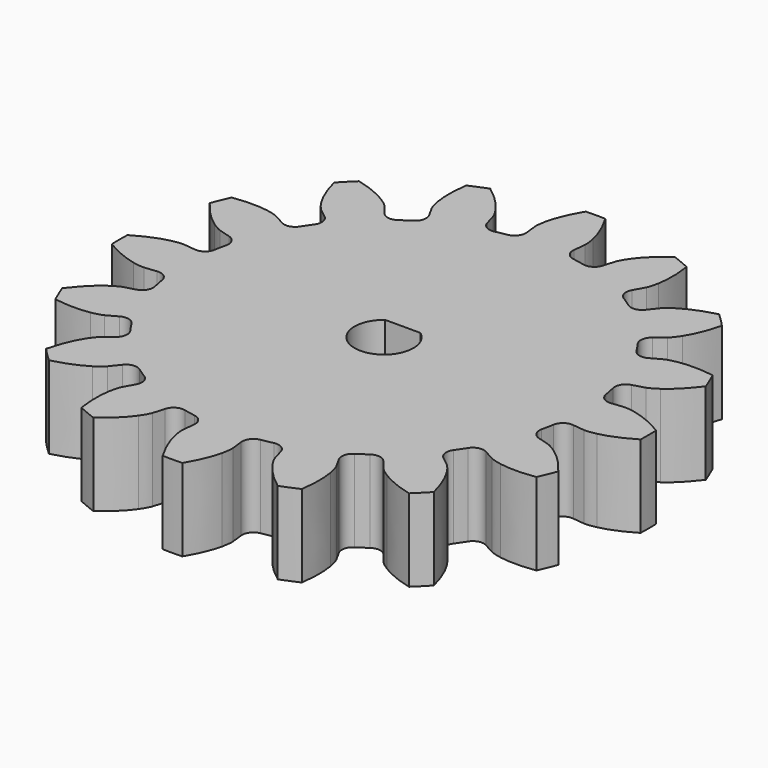
from build123d import *

# Parameters (mm, degrees)
PAD_DEPTH    = 7
POCKET_DEPTH = 7


with BuildPart() as part:
    # InvoluteGear → Pad (new body)
    with BuildSketch(Plane.XY):
        with BuildLine():
            Line((17.711158, -2.011343), (18.715948, -2.12352))
            add(Edge.make_bspline(
                [(18.715948, -2.12352), (18.826423, -2.128654), (19.15862, -2.129514), (19.714241, -2.006277)],
                knots=[0, 0, 0, 0, 1, 1, 1, 1], degree=3))
            add(Edge.make_bspline(
                [(19.714241, -2.006277), (20.377678, -1.856331), (21.328537, -1.53078), (22.487628, -0.830749)],
                knots=[0, 0, 0, 0, 1, 1, 1, 1], degree=3))
            ThreePointArc((22.487628, -0.830749), (22.501485, 0.000622), (22.484614, 0.831936))
            add(Edge.make_bspline(
                [(22.484614, 0.831936), (21.328537, 1.53078), (20.377678, 1.856331), (19.714241, 2.006277)],
                knots=[0, 0, 0, 0, 1, 1, 1, 1], degree=3))
            add(Edge.make_bspline(
                [(19.714241, 2.006277), (19.15862, 2.129514), (18.826423, 2.128654), (18.715948, 2.12352)],
                knots=[0, 0, 0, 0, 1, 1, 1, 1], degree=3))
            Line((18.715948, 2.12352), (17.711158, 2.011343))
            ThreePointArc((17.711158, 2.011343), (17.017748, 2.185488), (16.642123, 2.793807))
            ThreePointArc((16.642123, 2.793807), (16.550752, 3.292149), (16.444461, 3.787524))
            ThreePointArc((16.444461, 3.787524), (16.558699, 4.493282), (17.132684, 4.919528))
            Line((17.132684, 4.919528), (18.103917, 5.200407))
            add(Edge.make_bspline(
                [(18.103917, 5.200407), (18.207948, 5.237941), (18.515187, 5.364272), (18.981353, 5.690756)],
                knots=[0, 0, 0, 0, 1, 1, 1, 1], degree=3))
            add(Edge.make_bspline(
                [(18.981353, 5.690756), (19.536907, 6.083174), (20.290803, 6.747822), (21.093773, 7.838131)],
                knots=[0, 0, 0, 0, 1, 1, 1, 1], degree=3))
            ThreePointArc((21.093773, 7.838131), (20.788423, 8.61152), (20.454707, 9.373098))
            add(Edge.make_bspline(
                [(20.454707, 9.373098), (19.119195, 9.576334), (18.116133, 9.513226), (17.445815, 9.397871)],
                knots=[0, 0, 0, 0, 1, 1, 1, 1], degree=3))
            add(Edge.make_bspline(
                [(17.445815, 9.397871), (16.885327, 9.299101), (16.578747, 9.17118), (16.478645, 9.12416)],
                knots=[0, 0, 0, 0, 1, 1, 1, 1], degree=3))
            Line((16.478645, 9.12416), (15.593269, 8.636005))
            ThreePointArc((15.593269, 8.636005), (14.885999, 8.531538), (14.306174, 8.949806))
            ThreePointArc((14.306174, 8.949806), (14.03105, 9.375248), (13.743278, 9.792239))
            ThreePointArc((13.743278, 9.792239), (13.578738, 10.487991), (13.945914, 11.101446))
            Line((13.945914, 11.101446), (14.735729, 11.732619))
            add(Edge.make_bspline(
                [(14.735729, 11.732619), (14.817477, 11.807106), (15.052984, 12.041396), (15.358726, 12.521422)],
                knots=[0, 0, 0, 0, 1, 1, 1, 1], degree=3))
            add(Edge.make_bspline(
                [(15.358726, 12.521422), (15.721819, 13.09657), (16.163978, 13.999128), (16.488582, 15.313726)],
                knots=[0, 0, 0, 0, 1, 1, 1, 1], degree=3))
            ThreePointArc((16.488582, 15.313726), (15.910513, 15.911392), (15.310755, 16.487291))
            add(Edge.make_bspline(
                [(15.310755, 16.487291), (13.999128, 16.163978), (13.09657, 15.721819), (12.521422, 15.358726)],
                knots=[0, 0, 0, 0, 1, 1, 1, 1], degree=3))
            add(Edge.make_bspline(
                [(12.521422, 15.358726), (12.041396, 15.052984), (11.807106, 14.817477), (11.732619, 14.735729)],
                knots=[0, 0, 0, 0, 1, 1, 1, 1], degree=3))
            Line((11.732619, 14.735729), (11.101446, 13.945914))
            ThreePointArc((11.101446, 13.945914), (10.487991, 13.578738), (9.792239, 13.743278))
            ThreePointArc((9.792239, 13.743278), (9.375248, 14.03105), (8.949806, 14.306174))
            ThreePointArc((8.949806, 14.306174), (8.531538, 14.885999), (8.636005, 15.593269))
            Line((8.636005, 15.593269), (9.12416, 16.478645))
            add(Edge.make_bspline(
                [(9.12416, 16.478645), (9.17118, 16.578747), (9.299101, 16.885327), (9.397871, 17.445815)],
                knots=[0, 0, 0, 0, 1, 1, 1, 1], degree=3))
            add(Edge.make_bspline(
                [(9.397871, 17.445815), (9.513226, 18.116133), (9.576334, 19.119195), (9.373154, 20.457945)],
                knots=[0, 0, 0, 0, 1, 1, 1, 1], degree=3))
            ThreePointArc((9.373154, 20.457945), (8.610371, 20.788899), (7.83588, 21.091443))
            add(Edge.make_bspline(
                [(7.83588, 21.091443), (6.747822, 20.290803), (6.083174, 19.536907), (5.690756, 18.981353)],
                knots=[0, 0, 0, 0, 1, 1, 1, 1], degree=3))
            add(Edge.make_bspline(
                [(5.690756, 18.981353), (5.364272, 18.515187), (5.237941, 18.207948), (5.200407, 18.103917)],
                knots=[0, 0, 0, 0, 1, 1, 1, 1], degree=3))
            Line((5.200407, 18.103917), (4.919528, 17.132684))
            ThreePointArc((4.919528, 17.132684), (4.493282, 16.558699), (3.787524, 16.444461))
            ThreePointArc((3.787524, 16.444461), (3.292149, 16.550752), (2.793807, 16.642123))
            ThreePointArc((2.793807, 16.642123), (2.185488, 17.017748), (2.011343, 17.711158))
            Line((2.011343, 17.711158), (2.12352, 18.715948))
            add(Edge.make_bspline(
                [(2.12352, 18.715948), (2.128654, 18.826423), (2.129514, 19.15862), (2.006277, 19.714241)],
                knots=[0, 0, 0, 0, 1, 1, 1, 1], degree=3))
            add(Edge.make_bspline(
                [(2.006277, 19.714241), (1.856331, 20.377678), (1.53078, 21.328537), (0.830749, 22.487628)],
                knots=[0, 0, 0, 0, 1, 1, 1, 1], degree=3))
            ThreePointArc((0.830749, 22.487628), (-0.000622, 22.501485), (-0.831936, 22.484614))
            add(Edge.make_bspline(
                [(-0.831936, 22.484614), (-1.53078, 21.328537), (-1.856331, 20.377678), (-2.006277, 19.714241)],
                knots=[0, 0, 0, 0, 1, 1, 1, 1], degree=3))
            add(Edge.make_bspline(
                [(-2.006277, 19.714241), (-2.129514, 19.15862), (-2.128654, 18.826423), (-2.12352, 18.715948)],
                knots=[0, 0, 0, 0, 1, 1, 1, 1], degree=3))
            Line((-2.12352, 18.715948), (-2.011343, 17.711158))
            ThreePointArc((-2.011343, 17.711158), (-2.185488, 17.017748), (-2.793807, 16.642123))
            ThreePointArc((-2.793807, 16.642123), (-3.292149, 16.550752), (-3.787524, 16.444461))
            ThreePointArc((-3.787524, 16.444461), (-4.493282, 16.558699), (-4.919528, 17.132684))
            Line((-4.919528, 17.132684), (-5.200407, 18.103917))
            add(Edge.make_bspline(
                [(-5.200407, 18.103917), (-5.237941, 18.207948), (-5.364272, 18.515187), (-5.690756, 18.981353)],
                knots=[0, 0, 0, 0, 1, 1, 1, 1], degree=3))
            add(Edge.make_bspline(
                [(-5.690756, 18.981353), (-6.083174, 19.536907), (-6.747822, 20.290803), (-7.838131, 21.093773)],
                knots=[0, 0, 0, 0, 1, 1, 1, 1], degree=3))
            ThreePointArc((-7.838131, 21.093773), (-8.61152, 20.788423), (-9.373098, 20.454707))
            add(Edge.make_bspline(
                [(-9.373098, 20.454707), (-9.576334, 19.119195), (-9.513226, 18.116133), (-9.397871, 17.445815)],
                knots=[0, 0, 0, 0, 1, 1, 1, 1], degree=3))
            add(Edge.make_bspline(
                [(-9.397871, 17.445815), (-9.299101, 16.885327), (-9.17118, 16.578747), (-9.12416, 16.478645)],
                knots=[0, 0, 0, 0, 1, 1, 1, 1], degree=3))
            Line((-9.12416, 16.478645), (-8.636005, 15.593269))
            ThreePointArc((-8.636005, 15.593269), (-8.531538, 14.885999), (-8.949806, 14.306174))
            ThreePointArc((-8.949806, 14.306174), (-9.375248, 14.03105), (-9.792239, 13.743278))
            ThreePointArc((-9.792239, 13.743278), (-10.487991, 13.578738), (-11.101446, 13.945914))
            Line((-11.101446, 13.945914), (-11.732619, 14.735729))
            add(Edge.make_bspline(
                [(-11.732619, 14.735729), (-11.807106, 14.817477), (-12.041396, 15.052984), (-12.521422, 15.358726)],
                knots=[0, 0, 0, 0, 1, 1, 1, 1], degree=3))
            add(Edge.make_bspline(
                [(-12.521422, 15.358726), (-13.09657, 15.721819), (-13.999128, 16.163978), (-15.313726, 16.488582)],
                knots=[0, 0, 0, 0, 1, 1, 1, 1], degree=3))
            ThreePointArc((-15.313726, 16.488582), (-15.911392, 15.910513), (-16.487291, 15.310755))
            add(Edge.make_bspline(
                [(-16.487291, 15.310755), (-16.163978, 13.999128), (-15.721819, 13.09657), (-15.358726, 12.521422)],
                knots=[0, 0, 0, 0, 1, 1, 1, 1], degree=3))
            add(Edge.make_bspline(
                [(-15.358726, 12.521422), (-15.052984, 12.041396), (-14.817477, 11.807106), (-14.735729, 11.732619)],
                knots=[0, 0, 0, 0, 1, 1, 1, 1], degree=3))
            Line((-14.735729, 11.732619), (-13.945914, 11.101446))
            ThreePointArc((-13.945914, 11.101446), (-13.578738, 10.487991), (-13.743278, 9.792239))
            ThreePointArc((-13.743278, 9.792239), (-14.03105, 9.375248), (-14.306174, 8.949806))
            ThreePointArc((-14.306174, 8.949806), (-14.885999, 8.531538), (-15.593269, 8.636005))
            Line((-15.593269, 8.636005), (-16.478645, 9.12416))
            add(Edge.make_bspline(
                [(-16.478645, 9.12416), (-16.578747, 9.17118), (-16.885327, 9.299101), (-17.445815, 9.397871)],
                knots=[0, 0, 0, 0, 1, 1, 1, 1], degree=3))
            add(Edge.make_bspline(
                [(-17.445815, 9.397871), (-18.116133, 9.513226), (-19.119195, 9.576334), (-20.457945, 9.373154)],
                knots=[0, 0, 0, 0, 1, 1, 1, 1], degree=3))
            ThreePointArc((-20.457945, 9.373154), (-20.788899, 8.610371), (-21.091443, 7.83588))
            add(Edge.make_bspline(
                [(-21.091443, 7.83588), (-20.290803, 6.747822), (-19.536907, 6.083174), (-18.981353, 5.690756)],
                knots=[0, 0, 0, 0, 1, 1, 1, 1], degree=3))
            add(Edge.make_bspline(
                [(-18.981353, 5.690756), (-18.515187, 5.364272), (-18.207948, 5.237941), (-18.103917, 5.200407)],
                knots=[0, 0, 0, 0, 1, 1, 1, 1], degree=3))
            Line((-18.103917, 5.200407), (-17.132684, 4.919528))
            ThreePointArc((-17.132684, 4.919528), (-16.558699, 4.493282), (-16.444461, 3.787524))
            ThreePointArc((-16.444461, 3.787524), (-16.550752, 3.292149), (-16.642123, 2.793807))
            ThreePointArc((-16.642123, 2.793807), (-17.017748, 2.185488), (-17.711158, 2.011343))
            Line((-17.711158, 2.011343), (-18.715948, 2.12352))
            add(Edge.make_bspline(
                [(-18.715948, 2.12352), (-18.826423, 2.128654), (-19.15862, 2.129514), (-19.714241, 2.006277)],
                knots=[0, 0, 0, 0, 1, 1, 1, 1], degree=3))
            add(Edge.make_bspline(
                [(-19.714241, 2.006277), (-20.377678, 1.856331), (-21.328537, 1.53078), (-22.487628, 0.830749)],
                knots=[0, 0, 0, 0, 1, 1, 1, 1], degree=3))
            ThreePointArc((-22.487628, 0.830749), (-22.501485, -0.000622), (-22.484614, -0.831936))
            add(Edge.make_bspline(
                [(-22.484614, -0.831936), (-21.328537, -1.53078), (-20.377678, -1.856331), (-19.714241, -2.006277)],
                knots=[0, 0, 0, 0, 1, 1, 1, 1], degree=3))
            add(Edge.make_bspline(
                [(-19.714241, -2.006277), (-19.15862, -2.129514), (-18.826423, -2.128654), (-18.715948, -2.12352)],
                knots=[0, 0, 0, 0, 1, 1, 1, 1], degree=3))
            Line((-18.715948, -2.12352), (-17.711158, -2.011343))
            ThreePointArc((-17.711158, -2.011343), (-17.017748, -2.185488), (-16.642123, -2.793807))
            ThreePointArc((-16.642123, -2.793807), (-16.550752, -3.292149), (-16.444461, -3.787524))
            ThreePointArc((-16.444461, -3.787524), (-16.558699, -4.493282), (-17.132684, -4.919528))
            Line((-17.132684, -4.919528), (-18.103917, -5.200407))
            add(Edge.make_bspline(
                [(-18.103917, -5.200407), (-18.207948, -5.237941), (-18.515187, -5.364272), (-18.981353, -5.690756)],
                knots=[0, 0, 0, 0, 1, 1, 1, 1], degree=3))
            add(Edge.make_bspline(
                [(-18.981353, -5.690756), (-19.536907, -6.083174), (-20.290803, -6.747822), (-21.093773, -7.838131)],
                knots=[0, 0, 0, 0, 1, 1, 1, 1], degree=3))
            ThreePointArc((-21.093773, -7.838131), (-20.788423, -8.61152), (-20.454707, -9.373098))
            add(Edge.make_bspline(
                [(-20.454707, -9.373098), (-19.119195, -9.576334), (-18.116133, -9.513226), (-17.445815, -9.397871)],
                knots=[0, 0, 0, 0, 1, 1, 1, 1], degree=3))
            add(Edge.make_bspline(
                [(-17.445815, -9.397871), (-16.885327, -9.299101), (-16.578747, -9.17118), (-16.478645, -9.12416)],
                knots=[0, 0, 0, 0, 1, 1, 1, 1], degree=3))
            Line((-16.478645, -9.12416), (-15.593269, -8.636005))
            ThreePointArc((-15.593269, -8.636005), (-14.885999, -8.531538), (-14.306174, -8.949806))
            ThreePointArc((-14.306174, -8.949806), (-14.03105, -9.375248), (-13.743278, -9.792239))
            ThreePointArc((-13.743278, -9.792239), (-13.578738, -10.487991), (-13.945914, -11.101446))
            Line((-13.945914, -11.101446), (-14.735729, -11.732619))
            add(Edge.make_bspline(
                [(-14.735729, -11.732619), (-14.817477, -11.807106), (-15.052984, -12.041396), (-15.358726, -12.521422)],
                knots=[0, 0, 0, 0, 1, 1, 1, 1], degree=3))
            add(Edge.make_bspline(
                [(-15.358726, -12.521422), (-15.721819, -13.09657), (-16.163978, -13.999128), (-16.488582, -15.313726)],
                knots=[0, 0, 0, 0, 1, 1, 1, 1], degree=3))
            ThreePointArc((-16.488582, -15.313726), (-15.910513, -15.911392), (-15.310755, -16.487291))
            add(Edge.make_bspline(
                [(-15.310755, -16.487291), (-13.999128, -16.163978), (-13.09657, -15.721819), (-12.521422, -15.358726)],
                knots=[0, 0, 0, 0, 1, 1, 1, 1], degree=3))
            add(Edge.make_bspline(
                [(-12.521422, -15.358726), (-12.041396, -15.052984), (-11.807106, -14.817477), (-11.732619, -14.735729)],
                knots=[0, 0, 0, 0, 1, 1, 1, 1], degree=3))
            Line((-11.732619, -14.735729), (-11.101446, -13.945914))
            ThreePointArc((-11.101446, -13.945914), (-10.487991, -13.578738), (-9.792239, -13.743278))
            ThreePointArc((-9.792239, -13.743278), (-9.375248, -14.03105), (-8.949806, -14.306174))
            ThreePointArc((-8.949806, -14.306174), (-8.531538, -14.885999), (-8.636005, -15.593269))
            Line((-8.636005, -15.593269), (-9.12416, -16.478645))
            add(Edge.make_bspline(
                [(-9.12416, -16.478645), (-9.17118, -16.578747), (-9.299101, -16.885327), (-9.397871, -17.445815)],
                knots=[0, 0, 0, 0, 1, 1, 1, 1], degree=3))
            add(Edge.make_bspline(
                [(-9.397871, -17.445815), (-9.513226, -18.116133), (-9.576334, -19.119195), (-9.373154, -20.457945)],
                knots=[0, 0, 0, 0, 1, 1, 1, 1], degree=3))
            ThreePointArc((-9.373154, -20.457945), (-8.610371, -20.788899), (-7.83588, -21.091443))
            add(Edge.make_bspline(
                [(-7.83588, -21.091443), (-6.747822, -20.290803), (-6.083174, -19.536907), (-5.690756, -18.981353)],
                knots=[0, 0, 0, 0, 1, 1, 1, 1], degree=3))
            add(Edge.make_bspline(
                [(-5.690756, -18.981353), (-5.364272, -18.515187), (-5.237941, -18.207948), (-5.200407, -18.103917)],
                knots=[0, 0, 0, 0, 1, 1, 1, 1], degree=3))
            Line((-5.200407, -18.103917), (-4.919528, -17.132684))
            ThreePointArc((-4.919528, -17.132684), (-4.493282, -16.558699), (-3.787524, -16.444461))
            ThreePointArc((-3.787524, -16.444461), (-3.292149, -16.550752), (-2.793807, -16.642123))
            ThreePointArc((-2.793807, -16.642123), (-2.185488, -17.017748), (-2.011343, -17.711158))
            Line((-2.011343, -17.711158), (-2.12352, -18.715948))
            add(Edge.make_bspline(
                [(-2.12352, -18.715948), (-2.128654, -18.826423), (-2.129514, -19.15862), (-2.006277, -19.714241)],
                knots=[0, 0, 0, 0, 1, 1, 1, 1], degree=3))
            add(Edge.make_bspline(
                [(-2.006277, -19.714241), (-1.856331, -20.377678), (-1.53078, -21.328537), (-0.830749, -22.487628)],
                knots=[0, 0, 0, 0, 1, 1, 1, 1], degree=3))
            ThreePointArc((-0.830749, -22.487628), (0.000622, -22.501485), (0.831936, -22.484614))
            add(Edge.make_bspline(
                [(0.831936, -22.484614), (1.53078, -21.328537), (1.856331, -20.377678), (2.006277, -19.714241)],
                knots=[0, 0, 0, 0, 1, 1, 1, 1], degree=3))
            add(Edge.make_bspline(
                [(2.006277, -19.714241), (2.129514, -19.15862), (2.128654, -18.826423), (2.12352, -18.715948)],
                knots=[0, 0, 0, 0, 1, 1, 1, 1], degree=3))
            Line((2.12352, -18.715948), (2.011343, -17.711158))
            ThreePointArc((2.011343, -17.711158), (2.185488, -17.017748), (2.793807, -16.642123))
            ThreePointArc((2.793807, -16.642123), (3.292149, -16.550752), (3.787524, -16.444461))
            ThreePointArc((3.787524, -16.444461), (4.493282, -16.558699), (4.919528, -17.132684))
            Line((4.919528, -17.132684), (5.200407, -18.103917))
            add(Edge.make_bspline(
                [(5.200407, -18.103917), (5.237941, -18.207948), (5.364272, -18.515187), (5.690756, -18.981353)],
                knots=[0, 0, 0, 0, 1, 1, 1, 1], degree=3))
            add(Edge.make_bspline(
                [(5.690756, -18.981353), (6.083174, -19.536907), (6.747822, -20.290803), (7.838131, -21.093773)],
                knots=[0, 0, 0, 0, 1, 1, 1, 1], degree=3))
            ThreePointArc((7.838131, -21.093773), (8.61152, -20.788423), (9.373098, -20.454707))
            add(Edge.make_bspline(
                [(9.373098, -20.454707), (9.576334, -19.119195), (9.513226, -18.116133), (9.397871, -17.445815)],
                knots=[0, 0, 0, 0, 1, 1, 1, 1], degree=3))
            add(Edge.make_bspline(
                [(9.397871, -17.445815), (9.299101, -16.885327), (9.17118, -16.578747), (9.12416, -16.478645)],
                knots=[0, 0, 0, 0, 1, 1, 1, 1], degree=3))
            Line((9.12416, -16.478645), (8.636005, -15.593269))
            ThreePointArc((8.636005, -15.593269), (8.531538, -14.885999), (8.949806, -14.306174))
            ThreePointArc((8.949806, -14.306174), (9.375248, -14.03105), (9.792239, -13.743278))
            ThreePointArc((9.792239, -13.743278), (10.487991, -13.578738), (11.101446, -13.945914))
            Line((11.101446, -13.945914), (11.732619, -14.735729))
            add(Edge.make_bspline(
                [(11.732619, -14.735729), (11.807106, -14.817477), (12.041396, -15.052984), (12.521422, -15.358726)],
                knots=[0, 0, 0, 0, 1, 1, 1, 1], degree=3))
            add(Edge.make_bspline(
                [(12.521422, -15.358726), (13.09657, -15.721819), (13.999128, -16.163978), (15.313726, -16.488582)],
                knots=[0, 0, 0, 0, 1, 1, 1, 1], degree=3))
            ThreePointArc((15.313726, -16.488582), (15.911392, -15.910513), (16.487291, -15.310755))
            add(Edge.make_bspline(
                [(16.487291, -15.310755), (16.163978, -13.999128), (15.721819, -13.09657), (15.358726, -12.521422)],
                knots=[0, 0, 0, 0, 1, 1, 1, 1], degree=3))
            add(Edge.make_bspline(
                [(15.358726, -12.521422), (15.052984, -12.041396), (14.817477, -11.807106), (14.735729, -11.732619)],
                knots=[0, 0, 0, 0, 1, 1, 1, 1], degree=3))
            Line((14.735729, -11.732619), (13.945914, -11.101446))
            ThreePointArc((13.945914, -11.101446), (13.578738, -10.487991), (13.743278, -9.792239))
            ThreePointArc((13.743278, -9.792239), (14.03105, -9.375248), (14.306174, -8.949806))
            ThreePointArc((14.306174, -8.949806), (14.885999, -8.531538), (15.593269, -8.636005))
            Line((15.593269, -8.636005), (16.478645, -9.12416))
            add(Edge.make_bspline(
                [(16.478645, -9.12416), (16.578747, -9.17118), (16.885327, -9.299101), (17.445815, -9.397871)],
                knots=[0, 0, 0, 0, 1, 1, 1, 1], degree=3))
            add(Edge.make_bspline(
                [(17.445815, -9.397871), (18.116133, -9.513226), (19.119195, -9.576334), (20.457945, -9.373154)],
                knots=[0, 0, 0, 0, 1, 1, 1, 1], degree=3))
            ThreePointArc((20.457945, -9.373154), (20.788899, -8.610371), (21.091443, -7.83588))
            add(Edge.make_bspline(
                [(21.091443, -7.83588), (20.290803, -6.747822), (19.536907, -6.083174), (18.981353, -5.690756)],
                knots=[0, 0, 0, 0, 1, 1, 1, 1], degree=3))
            add(Edge.make_bspline(
                [(18.981353, -5.690756), (18.515187, -5.364272), (18.207948, -5.237941), (18.103917, -5.200407)],
                knots=[0, 0, 0, 0, 1, 1, 1, 1], degree=3))
            Line((18.103917, -5.200407), (17.132684, -4.919528))
            ThreePointArc((17.132684, -4.919528), (16.558699, -4.493282), (16.444461, -3.787524))
            ThreePointArc((16.444461, -3.787524), (16.550752, -3.292149), (16.642123, -2.793807))
            ThreePointArc((16.642123, -2.793807), (17.017748, -2.185488), (17.711158, -2.011343))
        make_face()
    extrude(amount=PAD_DEPTH)

    # Sketch (on Face162 of Pad) → Pocket (cut)
    with BuildSketch(Plane.XY.offset(7)):
        with BuildLine():
            ThreePointArc((-1.5, 2), (0, -2.5), (1.5, 2))
            Line((-1.5, 2), (1.5, 2))
        make_face()
    extrude(amount=-POCKET_DEPTH, mode=Mode.SUBTRACT)


solid = part.part
